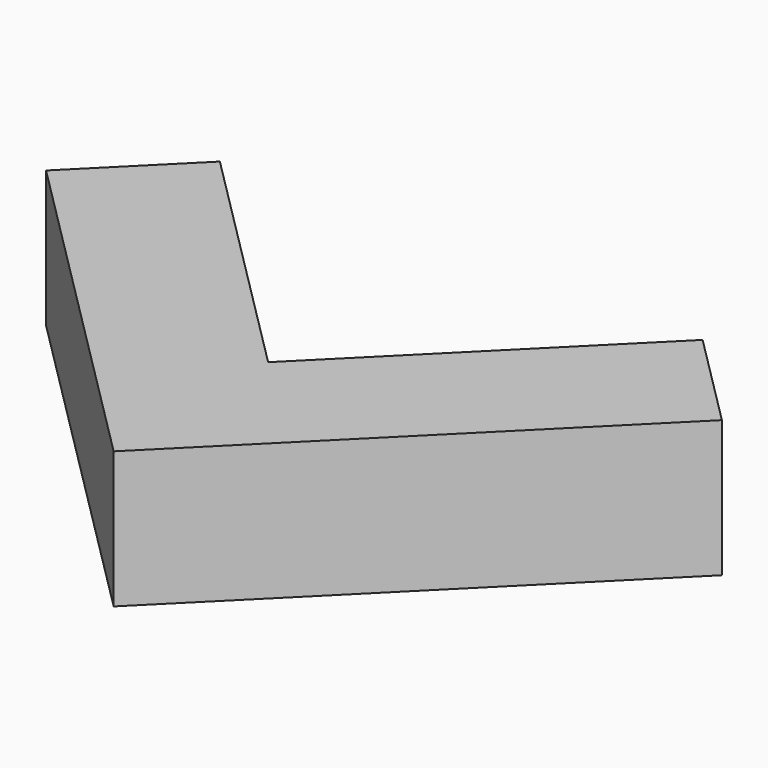
from build123d import *

# Parameters (mm, degrees)
BOX175_W                  = 3.5
BOX175_H                  = 1
BOX175_DEPTH              = 1
BOX174_W                  = 3.5
BOX174_H                  = 1
BOX174_DEPTH              = 1
FUSION033_PLACEMENT_ANGLE = 45


with BuildPart() as cube143:
    # Box175 → Box175 (new body)
    with BuildSketch(Plane.XY):
        with Locations((1.75, 0.5)):
            Rectangle(BOX175_W, BOX175_H)
    extrude(amount=BOX175_DEPTH)


with BuildPart() as obj1:
    # Box174 → Box174 (new body)
    with BuildSketch(Plane(origin=(1, 0, 0), x_dir=(0, 1, 0), z_dir=(0, 0, 1))):
        with Locations((1.75, 0.5)):
            Rectangle(BOX174_W, BOX174_H)
    extrude(amount=BOX174_DEPTH)

    # Fusion033: union Cube143
    add(cube143.part)


with BuildPart() as obj1_1:
    # Fusion033 placement: moved
    add(obj1.part.moved(Location((0, -8, 0))).rotate(Axis((0, -8, 0), (0, 0, 1)), FUSION033_PLACEMENT_ANGLE))


solid = obj1_1.part
